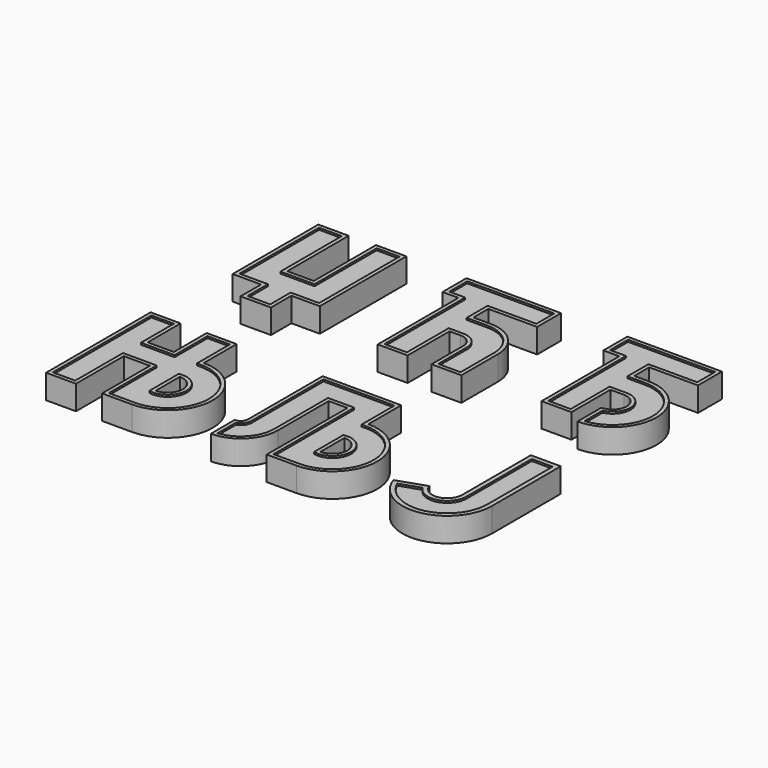
from build123d import *

# Parameters (mm, degrees)
F0_W      = 6.0888630679
F0_H      = 1.2813997149
F0_H_2    = 8.372186441
F1_DEPTH  = 6
F2_DEPTH  = 6.5
F3_DEPTH  = 5
F4_W      = 6
F4_H      = 1
F5_DEPTH  = 6
F6_DEPTH  = 6.5
F7_DEPTH  = 5
F8_W      = 6
F8_H      = 1
F9_DEPTH  = 6
F10_DEPTH = 6.5
F11_DEPTH = 5
F13_DEPTH = 6
F14_DEPTH = 6.5
F15_DEPTH = 5
F17_DEPTH = 6
F18_DEPTH = 6.5
F19_DEPTH = 5
F20_W     = 5.6000024785
F20_H     = 20.6000012393
F20_H_2   = 1.2
F21_DEPTH = 6
F22_DEPTH = 6.5
F23_DEPTH = 5


with BuildPart() as f1:
    # F0 (on Top) → F1 (new body)
    with BuildSketch(Plane.XY):
        Polygon((-54.2746931314, 46.2255762225), (-54.2746931314, 17.5571795553), (-46.6636142966, 17.5571795553), (-46.6636142966, 10.7072083267), (-38.5451302061, 10.7072083267), (-38.5451302061, 17.5571795553), (-30.9340513713, 17.5571795553), (-30.9340513713, 46.4792815309), (-39.0525354618, 46.4792815309), (-39.0525354618, 25.6756636458), (-46.156209041, 25.6756636458), (-46.156209041, 46.2255762225), align=None)
        Polygon((-31.9488618826, 45.4644710196), (-31.9488618826, 18.5719900666), (-39.5599407174, 18.5719900666), (-39.5599407174, 11.722018838), (-45.6488037853, 11.722018838), (-45.6488037853, 18.5719900666), (-53.2598826201, 18.5719900666), (-53.2598826201, 35.5571795553), (-53.2598826201, 36.8385792702), (-53.2598826201, 45.2107657112), (-47.1710195523, 45.2107657112), (-47.1710195523, 36.8385792702), (-47.1710195523, 35.5571795553), (-47.1710195523, 24.6608531345), (-45.6488037853, 24.6608531345), (-38.0377249505, 24.6608531345), (-38.0377249505, 45.4644710196), align=None, mode=Mode.SUBTRACT)
        Polygon((-39.5599407174, 18.5719900666), (-31.9488618826, 18.5719900666), (-31.9488618826, 45.4644710196), (-38.0377249505, 45.4644710196), (-38.0377249505, 24.6608531345), (-45.6488037853, 24.6608531345), (-47.1710195523, 24.6608531345), (-47.1710195523, 35.5571795553), (-53.2598826201, 35.5571795553), (-53.2598826201, 18.5719900666), (-45.6488037853, 18.5719900666), (-45.6488037853, 11.722018838), (-39.5599407174, 11.722018838), align=None)
        with Locations((-50.2154510862, 36.1978794127)):
            Rectangle(F0_W, F0_H)
        with Locations((-50.2154510862, 41.0246724907)):
            Rectangle(F0_W, F0_H_2)
    extrude(amount=F1_DEPTH)

    # F0 (on Top) → F2 (join)
    with BuildSketch(Plane.XY):
        Polygon((-54.2746931314, 46.2255762225), (-54.2746931314, 17.5571795553), (-46.6636142966, 17.5571795553), (-46.6636142966, 10.7072083267), (-38.5451302061, 10.7072083267), (-38.5451302061, 17.5571795553), (-30.9340513713, 17.5571795553), (-30.9340513713, 46.4792815309), (-39.0525354618, 46.4792815309), (-39.0525354618, 25.6756636458), (-46.156209041, 25.6756636458), (-46.156209041, 46.2255762225), align=None)
        Polygon((-31.9488618826, 45.4644710196), (-31.9488618826, 18.5719900666), (-39.5599407174, 18.5719900666), (-39.5599407174, 11.722018838), (-45.6488037853, 11.722018838), (-45.6488037853, 18.5719900666), (-53.2598826201, 18.5719900666), (-53.2598826201, 35.5571795553), (-53.2598826201, 36.8385792702), (-53.2598826201, 45.2107657112), (-47.1710195523, 45.2107657112), (-47.1710195523, 36.8385792702), (-47.1710195523, 35.5571795553), (-47.1710195523, 24.6608531345), (-45.6488037853, 24.6608531345), (-38.0377249505, 24.6608531345), (-38.0377249505, 45.4644710196), align=None, mode=Mode.SUBTRACT)
    extrude(amount=F2_DEPTH)

    # F0 (on Top) → F3 (cut)
    with BuildSketch(Plane.XY):
        Polygon((-39.5599407174, 18.5719900666), (-31.9488618826, 18.5719900666), (-31.9488618826, 45.4644710196), (-38.0377249505, 45.4644710196), (-38.0377249505, 24.6608531345), (-45.6488037853, 24.6608531345), (-47.1710195523, 24.6608531345), (-47.1710195523, 35.5571795553), (-53.2598826201, 35.5571795553), (-53.2598826201, 18.5719900666), (-45.6488037853, 18.5719900666), (-45.6488037853, 11.722018838), (-39.5599407174, 11.722018838), align=None)
        with Locations((-50.2154510862, 41.0246724907)):
            Rectangle(F0_W, F0_H_2)
    extrude(amount=F3_DEPTH, mode=Mode.SUBTRACT)


with BuildPart() as f5:
    # F4 (on Top) → F5 (new body)
    with BuildSketch(Plane.XY):
        with BuildLine():
            Line((-14.9280290909, 38.6110406816), (-10.6780290909, 38.6110406816))
            Line((-10.6780290909, 38.6110406816), (-10.6780290909, 11.6110406816))
            Line((-10.6780290909, 11.6110406816), (-2.6780290909, 11.6110406816))
            Line((-2.6780290909, 11.6110406816), (-2.6780290909, 25.6110406816))
            Line((-2.6780290909, 25.6110406816), (0.3294588932, 25.6110406816))
            ThreePointArc((0.3294588932, 25.6110406816), (2.8579005681, 24.4816825281), (3.7041804932, 21.8449653589))
            Line((3.7041804932, 21.8449653589), (3.7041804932, 11.6110406816))
            Line((3.7041804932, 11.6110406816), (11.7041804932, 11.6110406816))
            Line((11.7041804932, 11.6110406816), (11.7041804932, 23.830090176))
            ThreePointArc((11.7041804932, 23.830090176), (8.8394064165, 30.746266605), (1.9232299876, 33.6110406816))
            Line((1.9232299876, 33.6110406816), (-2.6780290909, 33.6110406816))
            Line((-2.6780290909, 33.6110406816), (-2.6780290909, 38.6110406816))
            Line((-2.6780290909, 38.6110406816), (10.3974262689, 38.6110406816))
            Line((10.3974262689, 38.6110406816), (10.3974262689, 46.6110406816))
            Line((10.3974262689, 46.6110406816), (-14.9280290909, 46.6110406816))
            Line((-14.9280290909, 46.6110406816), (-14.9280290909, 38.6110406816))
        make_face()
        with BuildLine():
            Line((-3.6780290909, 39.6110406816), (-3.6780290909, 33.6110406816))
            Line((-3.6780290909, 33.6110406816), (-3.6780290909, 32.6110406816))
            Line((-3.6780290909, 32.6110406816), (1.9232299876, 32.6110406816))
            ThreePointArc((1.9232299876, 32.6110406816), (8.1322996354, 30.0391598238), (10.7041804932, 23.830090176))
            Line((10.7041804932, 23.830090176), (10.7041804932, 12.6110406816))
            Line((10.7041804932, 12.6110406816), (4.7041804932, 12.6110406816))
            Line((4.7041804932, 12.6110406816), (4.7041804932, 21.7937015852))
            ThreePointArc((4.7041804932, 21.7937015852), (3.5831085766, 25.17068931), (0.3294588932, 26.6110406816))
            Line((0.3294588932, 26.6110406816), (-3.6780290909, 26.6110406816))
            Line((-3.6780290909, 26.6110406816), (-3.6780290909, 12.6110406816))
            Line((-3.6780290909, 12.6110406816), (-9.6780290909, 12.6110406816))
            Line((-9.6780290909, 12.6110406816), (-9.6780290909, 32.6110406816))
            Line((-9.6780290909, 32.6110406816), (-9.6780290909, 33.6110406816))
            Line((-9.6780290909, 33.6110406816), (-9.6780290909, 39.6110406816))
            Line((-9.6780290909, 39.6110406816), (-13.9280290909, 39.6110406816))
            Line((-13.9280290909, 39.6110406816), (-13.9280290909, 45.6110406816))
            Line((-13.9280290909, 45.6110406816), (9.3974262689, 45.6110406816))
            Line((9.3974262689, 45.6110406816), (9.3974262689, 39.6110406816))
            Line((9.3974262689, 39.6110406816), (-3.6780290909, 39.6110406816))
        make_face(mode=Mode.SUBTRACT)
        Polygon((-9.6780290909, 33.6110406816), (-3.6780290909, 33.6110406816), (-3.6780290909, 39.6110406816), (9.3974262689, 39.6110406816), (9.3974262689, 45.6110406816), (-13.9280290909, 45.6110406816), (-13.9280290909, 39.6110406816), (-9.6780290909, 39.6110406816), align=None)
        with Locations((-6.6780290909, 33.1110406816)):
            Rectangle(F4_W, F4_H)
        with BuildLine():
            Line((1.9232299876, 32.6110406816), (-3.6780290909, 32.6110406816))
            Line((-3.6780290909, 32.6110406816), (-9.6780290909, 32.6110406816))
            Line((-9.6780290909, 32.6110406816), (-9.6780290909, 12.6110406816))
            Line((-9.6780290909, 12.6110406816), (-3.6780290909, 12.6110406816))
            Line((-3.6780290909, 12.6110406816), (-3.6780290909, 26.6110406816))
            Line((-3.6780290909, 26.6110406816), (0.3294588932, 26.6110406816))
            ThreePointArc((0.3294588932, 26.6110406816), (3.5831085766, 25.17068931), (4.7041804932, 21.7937015852))
            Line((4.7041804932, 21.7937015852), (4.7041804932, 12.6110406816))
            Line((4.7041804932, 12.6110406816), (10.7041804932, 12.6110406816))
            Line((10.7041804932, 12.6110406816), (10.7041804932, 23.830090176))
            ThreePointArc((10.7041804932, 23.830090176), (8.1322996354, 30.0391598238), (1.9232299876, 32.6110406816))
        make_face()
    extrude(amount=F5_DEPTH)

    # F4 (on Top) → F6 (join)
    with BuildSketch(Plane.XY):
        with BuildLine():
            Line((-14.9280290909, 38.6110406816), (-10.6780290909, 38.6110406816))
            Line((-10.6780290909, 38.6110406816), (-10.6780290909, 11.6110406816))
            Line((-10.6780290909, 11.6110406816), (-2.6780290909, 11.6110406816))
            Line((-2.6780290909, 11.6110406816), (-2.6780290909, 25.6110406816))
            Line((-2.6780290909, 25.6110406816), (0.3294588932, 25.6110406816))
            ThreePointArc((0.3294588932, 25.6110406816), (2.8579005681, 24.4816825281), (3.7041804932, 21.8449653589))
            Line((3.7041804932, 21.8449653589), (3.7041804932, 11.6110406816))
            Line((3.7041804932, 11.6110406816), (11.7041804932, 11.6110406816))
            Line((11.7041804932, 11.6110406816), (11.7041804932, 23.830090176))
            ThreePointArc((11.7041804932, 23.830090176), (8.8394064165, 30.746266605), (1.9232299876, 33.6110406816))
            Line((1.9232299876, 33.6110406816), (-2.6780290909, 33.6110406816))
            Line((-2.6780290909, 33.6110406816), (-2.6780290909, 38.6110406816))
            Line((-2.6780290909, 38.6110406816), (10.3974262689, 38.6110406816))
            Line((10.3974262689, 38.6110406816), (10.3974262689, 46.6110406816))
            Line((10.3974262689, 46.6110406816), (-14.9280290909, 46.6110406816))
            Line((-14.9280290909, 46.6110406816), (-14.9280290909, 38.6110406816))
        make_face()
        with BuildLine():
            Line((-3.6780290909, 39.6110406816), (-3.6780290909, 33.6110406816))
            Line((-3.6780290909, 33.6110406816), (-3.6780290909, 32.6110406816))
            Line((-3.6780290909, 32.6110406816), (1.9232299876, 32.6110406816))
            ThreePointArc((1.9232299876, 32.6110406816), (8.1322996354, 30.0391598238), (10.7041804932, 23.830090176))
            Line((10.7041804932, 23.830090176), (10.7041804932, 12.6110406816))
            Line((10.7041804932, 12.6110406816), (4.7041804932, 12.6110406816))
            Line((4.7041804932, 12.6110406816), (4.7041804932, 21.7937015852))
            ThreePointArc((4.7041804932, 21.7937015852), (3.5831085766, 25.17068931), (0.3294588932, 26.6110406816))
            Line((0.3294588932, 26.6110406816), (-3.6780290909, 26.6110406816))
            Line((-3.6780290909, 26.6110406816), (-3.6780290909, 12.6110406816))
            Line((-3.6780290909, 12.6110406816), (-9.6780290909, 12.6110406816))
            Line((-9.6780290909, 12.6110406816), (-9.6780290909, 32.6110406816))
            Line((-9.6780290909, 32.6110406816), (-9.6780290909, 33.6110406816))
            Line((-9.6780290909, 33.6110406816), (-9.6780290909, 39.6110406816))
            Line((-9.6780290909, 39.6110406816), (-13.9280290909, 39.6110406816))
            Line((-13.9280290909, 39.6110406816), (-13.9280290909, 45.6110406816))
            Line((-13.9280290909, 45.6110406816), (9.3974262689, 45.6110406816))
            Line((9.3974262689, 45.6110406816), (9.3974262689, 39.6110406816))
            Line((9.3974262689, 39.6110406816), (-3.6780290909, 39.6110406816))
        make_face(mode=Mode.SUBTRACT)
    extrude(amount=F6_DEPTH)

    # F4 (on Top) → F7 (cut)
    with BuildSketch(Plane.XY):
        Polygon((-9.6780290909, 33.6110406816), (-3.6780290909, 33.6110406816), (-3.6780290909, 39.6110406816), (9.3974262689, 39.6110406816), (9.3974262689, 45.6110406816), (-13.9280290909, 45.6110406816), (-13.9280290909, 39.6110406816), (-9.6780290909, 39.6110406816), align=None)
        with BuildLine():
            Line((1.9232299876, 32.6110406816), (-3.6780290909, 32.6110406816))
            Line((-3.6780290909, 32.6110406816), (-9.6780290909, 32.6110406816))
            Line((-9.6780290909, 32.6110406816), (-9.6780290909, 12.6110406816))
            Line((-9.6780290909, 12.6110406816), (-3.6780290909, 12.6110406816))
            Line((-3.6780290909, 12.6110406816), (-3.6780290909, 26.6110406816))
            Line((-3.6780290909, 26.6110406816), (0.3294588932, 26.6110406816))
            ThreePointArc((0.3294588932, 26.6110406816), (3.5831085766, 25.17068931), (4.7041804932, 21.7937015852))
            Line((4.7041804932, 21.7937015852), (4.7041804932, 12.6110406816))
            Line((4.7041804932, 12.6110406816), (10.7041804932, 12.6110406816))
            Line((10.7041804932, 12.6110406816), (10.7041804932, 23.830090176))
            ThreePointArc((10.7041804932, 23.830090176), (8.1322996354, 30.0391598238), (1.9232299876, 32.6110406816))
        make_face()
    extrude(amount=F7_DEPTH, mode=Mode.SUBTRACT)


with BuildPart() as f9:
    # F8 (on Top) → F9 (new body)
    with BuildSketch(Plane.XY):
        with BuildLine():
            Line((27.8599992033, 38.9609182477), (32.1099992033, 38.9609182477))
            Line((32.1099992033, 38.9609182477), (32.1099992033, 12.9609182477))
            Line((32.1099992033, 12.9609182477), (40.1099992033, 12.9609182477))
            Line((40.1099992033, 12.9609182477), (40.1099992033, 25.9609182477))
            Line((40.1099992033, 25.9609182477), (43.7352776033, 25.9609182477))
            ThreePointArc((43.7352776033, 25.9609182477), (47.4852776033, 22.2109182477), (43.7352776033, 18.4609182477))
            Line((43.7352776033, 18.4609182477), (43.7352776033, 10.4609182477))
            ThreePointArc((43.7352776033, 10.4609182477), (55.4852776033, 22.2109182477), (43.7352776033, 33.9609182477))
            Line((43.7352776033, 33.9609182477), (40.1099992033, 33.9609182477))
            Line((40.1099992033, 33.9609182477), (40.1099992033, 38.9609182477))
            Line((40.1099992033, 38.9609182477), (53.1854545631, 38.9609182477))
            Line((53.1854545631, 38.9609182477), (53.1854545631, 46.9609182477))
            Line((53.1854545631, 46.9609182477), (27.8599992033, 46.9609182477))
            Line((27.8599992033, 46.9609182477), (27.8599992033, 38.9609182477))
        make_face()
        with BuildLine():
            Line((39.1099992033, 39.9609182477), (39.1099992033, 33.9609182477))
            Line((39.1099992033, 33.9609182477), (39.1099992033, 32.9609182477))
            Line((39.1099992033, 32.9609182477), (43.7352776033, 32.9609182477))
            ThreePointArc((43.7352776033, 32.9609182477), (54.4736181089, 22.7114611386), (44.7352776033, 11.5075309334))
            Line((44.7352776033, 11.5075309334), (44.7352776033, 17.5673743424))
            ThreePointArc((44.7352776033, 17.5673743424), (48.4585886004, 22.7137434907), (43.7352776033, 26.9609182477))
            Line((43.7352776033, 26.9609182477), (39.1099992033, 26.9609182477))
            Line((39.1099992033, 26.9609182477), (39.1099992033, 13.9609182477))
            Line((39.1099992033, 13.9609182477), (33.1099992033, 13.9609182477))
            Line((33.1099992033, 13.9609182477), (33.1099992033, 32.9609182477))
            Line((33.1099992033, 32.9609182477), (33.1099992033, 33.9609182477))
            Line((33.1099992033, 33.9609182477), (33.1099992033, 39.9609182477))
            Line((33.1099992033, 39.9609182477), (28.8599992033, 39.9609182477))
            Line((28.8599992033, 39.9609182477), (28.8599992033, 45.9609182477))
            Line((28.8599992033, 45.9609182477), (52.1854545631, 45.9609182477))
            Line((52.1854545631, 45.9609182477), (52.1854545631, 39.9609182477))
            Line((52.1854545631, 39.9609182477), (39.1099992033, 39.9609182477))
        make_face(mode=Mode.SUBTRACT)
        with BuildLine():
            Line((27.8599992033, 38.9609182477), (32.1099992033, 38.9609182477))
            Line((32.1099992033, 38.9609182477), (32.1099992033, 12.9609182477))
            Line((32.1099992033, 12.9609182477), (40.1099992033, 12.9609182477))
            Line((40.1099992033, 12.9609182477), (40.1099992033, 25.9609182477))
            Line((40.1099992033, 25.9609182477), (43.7352776033, 25.9609182477))
            ThreePointArc((43.7352776033, 25.9609182477), (47.4852776033, 22.2109182477), (43.7352776033, 18.4609182477))
            Line((43.7352776033, 18.4609182477), (43.7352776033, 10.4609182477))
            ThreePointArc((43.7352776033, 10.4609182477), (55.4852776033, 22.2109182477), (43.7352776033, 33.9609182477))
            Line((43.7352776033, 33.9609182477), (40.1099992033, 33.9609182477))
            Line((40.1099992033, 33.9609182477), (40.1099992033, 38.9609182477))
            Line((40.1099992033, 38.9609182477), (53.1854545631, 38.9609182477))
            Line((53.1854545631, 38.9609182477), (53.1854545631, 46.9609182477))
            Line((53.1854545631, 46.9609182477), (27.8599992033, 46.9609182477))
            Line((27.8599992033, 46.9609182477), (27.8599992033, 38.9609182477))
        make_face()
        with BuildLine():
            Line((39.1099992033, 39.9609182477), (39.1099992033, 33.9609182477))
            Line((39.1099992033, 33.9609182477), (39.1099992033, 32.9609182477))
            Line((39.1099992033, 32.9609182477), (43.7352776033, 32.9609182477))
            ThreePointArc((43.7352776033, 32.9609182477), (54.4736181089, 22.7114611386), (44.7352776033, 11.5075309334))
            Line((44.7352776033, 11.5075309334), (44.7352776033, 17.5673743424))
            ThreePointArc((44.7352776033, 17.5673743424), (48.4585886004, 22.7137434907), (43.7352776033, 26.9609182477))
            Line((43.7352776033, 26.9609182477), (39.1099992033, 26.9609182477))
            Line((39.1099992033, 26.9609182477), (39.1099992033, 13.9609182477))
            Line((39.1099992033, 13.9609182477), (33.1099992033, 13.9609182477))
            Line((33.1099992033, 13.9609182477), (33.1099992033, 32.9609182477))
            Line((33.1099992033, 32.9609182477), (33.1099992033, 33.9609182477))
            Line((33.1099992033, 33.9609182477), (33.1099992033, 39.9609182477))
            Line((33.1099992033, 39.9609182477), (28.8599992033, 39.9609182477))
            Line((28.8599992033, 39.9609182477), (28.8599992033, 45.9609182477))
            Line((28.8599992033, 45.9609182477), (52.1854545631, 45.9609182477))
            Line((52.1854545631, 45.9609182477), (52.1854545631, 39.9609182477))
            Line((52.1854545631, 39.9609182477), (39.1099992033, 39.9609182477))
        make_face(mode=Mode.SUBTRACT)
        with BuildLine():
            Line((43.7352776033, 32.9609182477), (39.1099992033, 32.9609182477))
            Line((39.1099992033, 32.9609182477), (33.1099992033, 32.9609182477))
            Line((33.1099992033, 32.9609182477), (33.1099992033, 13.9609182477))
            Line((33.1099992033, 13.9609182477), (39.1099992033, 13.9609182477))
            Line((39.1099992033, 13.9609182477), (39.1099992033, 26.9609182477))
            Line((39.1099992033, 26.9609182477), (43.7352776033, 26.9609182477))
            ThreePointArc((43.7352776033, 26.9609182477), (48.4585886004, 22.7137434907), (44.7352776033, 17.5673743424))
            Line((44.7352776033, 17.5673743424), (44.7352776033, 11.5075309334))
            ThreePointArc((44.7352776033, 11.5075309334), (54.4736181089, 22.7114611386), (43.7352776033, 32.9609182477))
        make_face()
        Polygon((33.1099992033, 33.9609182477), (39.1099992033, 33.9609182477), (39.1099992033, 39.9609182477), (52.1854545631, 39.9609182477), (52.1854545631, 45.9609182477), (28.8599992033, 45.9609182477), (28.8599992033, 39.9609182477), (33.1099992033, 39.9609182477), align=None)
        with Locations((36.1099992033, 33.4609182477)):
            Rectangle(F8_W, F8_H)
    extrude(amount=F9_DEPTH)

    # F8 (on Top) → F10 (join)
    with BuildSketch(Plane.XY):
        with BuildLine():
            Line((27.8599992033, 38.9609182477), (32.1099992033, 38.9609182477))
            Line((32.1099992033, 38.9609182477), (32.1099992033, 12.9609182477))
            Line((32.1099992033, 12.9609182477), (40.1099992033, 12.9609182477))
            Line((40.1099992033, 12.9609182477), (40.1099992033, 25.9609182477))
            Line((40.1099992033, 25.9609182477), (43.7352776033, 25.9609182477))
            ThreePointArc((43.7352776033, 25.9609182477), (47.4852776033, 22.2109182477), (43.7352776033, 18.4609182477))
            Line((43.7352776033, 18.4609182477), (43.7352776033, 10.4609182477))
            ThreePointArc((43.7352776033, 10.4609182477), (55.4852776033, 22.2109182477), (43.7352776033, 33.9609182477))
            Line((43.7352776033, 33.9609182477), (40.1099992033, 33.9609182477))
            Line((40.1099992033, 33.9609182477), (40.1099992033, 38.9609182477))
            Line((40.1099992033, 38.9609182477), (53.1854545631, 38.9609182477))
            Line((53.1854545631, 38.9609182477), (53.1854545631, 46.9609182477))
            Line((53.1854545631, 46.9609182477), (27.8599992033, 46.9609182477))
            Line((27.8599992033, 46.9609182477), (27.8599992033, 38.9609182477))
        make_face()
        with BuildLine():
            Line((39.1099992033, 39.9609182477), (39.1099992033, 33.9609182477))
            Line((39.1099992033, 33.9609182477), (39.1099992033, 32.9609182477))
            Line((39.1099992033, 32.9609182477), (43.7352776033, 32.9609182477))
            ThreePointArc((43.7352776033, 32.9609182477), (54.4736181089, 22.7114611386), (44.7352776033, 11.5075309334))
            Line((44.7352776033, 11.5075309334), (44.7352776033, 17.5673743424))
            ThreePointArc((44.7352776033, 17.5673743424), (48.4585886004, 22.7137434907), (43.7352776033, 26.9609182477))
            Line((43.7352776033, 26.9609182477), (39.1099992033, 26.9609182477))
            Line((39.1099992033, 26.9609182477), (39.1099992033, 13.9609182477))
            Line((39.1099992033, 13.9609182477), (33.1099992033, 13.9609182477))
            Line((33.1099992033, 13.9609182477), (33.1099992033, 32.9609182477))
            Line((33.1099992033, 32.9609182477), (33.1099992033, 33.9609182477))
            Line((33.1099992033, 33.9609182477), (33.1099992033, 39.9609182477))
            Line((33.1099992033, 39.9609182477), (28.8599992033, 39.9609182477))
            Line((28.8599992033, 39.9609182477), (28.8599992033, 45.9609182477))
            Line((28.8599992033, 45.9609182477), (52.1854545631, 45.9609182477))
            Line((52.1854545631, 45.9609182477), (52.1854545631, 39.9609182477))
            Line((52.1854545631, 39.9609182477), (39.1099992033, 39.9609182477))
        make_face(mode=Mode.SUBTRACT)
    extrude(amount=F10_DEPTH)

    # F8 (on Top) → F11 (cut)
    with BuildSketch(Plane.XY):
        Polygon((33.1099992033, 33.9609182477), (39.1099992033, 33.9609182477), (39.1099992033, 39.9609182477), (52.1854545631, 39.9609182477), (52.1854545631, 45.9609182477), (28.8599992033, 45.9609182477), (28.8599992033, 39.9609182477), (33.1099992033, 39.9609182477), align=None)
        with BuildLine():
            Line((43.7352776033, 32.9609182477), (39.1099992033, 32.9609182477))
            Line((39.1099992033, 32.9609182477), (33.1099992033, 32.9609182477))
            Line((33.1099992033, 32.9609182477), (33.1099992033, 13.9609182477))
            Line((33.1099992033, 13.9609182477), (39.1099992033, 13.9609182477))
            Line((39.1099992033, 13.9609182477), (39.1099992033, 26.9609182477))
            Line((39.1099992033, 26.9609182477), (43.7352776033, 26.9609182477))
            ThreePointArc((43.7352776033, 26.9609182477), (48.4585886004, 22.7137434907), (44.7352776033, 17.5673743424))
            Line((44.7352776033, 17.5673743424), (44.7352776033, 11.5075309334))
            ThreePointArc((44.7352776033, 11.5075309334), (54.4736181089, 22.7114611386), (43.7352776033, 32.9609182477))
        make_face()
    extrude(amount=F11_DEPTH, mode=Mode.SUBTRACT)


with BuildPart() as f13:
    # F12 (on Top) → F13 (new body)
    with BuildSketch(Plane.XY):
        with BuildLine():
            Line((-48.8178854883, -6.7042076588), (-56.8178854883, -6.7042076588))
            Line((-56.8178854883, -6.7042076588), (-56.8178854883, -41.7042076588))
            Line((-56.8178854883, -41.7042076588), (-48.8178854883, -41.7042076588))
            Line((-48.8178854883, -41.7042076588), (-48.8178854883, -25.7042076588))
            Line((-48.8178854883, -25.7042076588), (-41.8178854883, -25.7042076588))
            Line((-41.8178854883, -25.7042076588), (-41.8178854883, -41.7042076588))
            Line((-41.8178854883, -41.7042076588), (-33.8178854883, -41.7042076588))
            ThreePointArc((-33.8178854883, -41.7042076588), (-21.8178854883, -29.7042076588), (-33.8178854883, -17.7042076588))
            Line((-33.8178854883, -17.7042076588), (-33.8178854883, -6.7042076588))
            Line((-33.8178854883, -6.7042076588), (-41.8178854883, -6.7042076588))
            Line((-41.8178854883, -6.7042076588), (-41.8178854883, -17.7042076588))
            Line((-41.8178854883, -17.7042076588), (-48.8178854883, -17.7042076588))
            Line((-48.8178854883, -17.7042076588), (-48.8178854883, -6.7042076588))
        make_face()
        with BuildLine():
            ThreePointArc((-34.8178854883, -18.7497565087), (-34.3194048671, -18.7156464102), (-33.8198895143, -18.7042078413))
            ThreePointArc((-33.8198895143, -18.7042078413), (-22.8178855339, -29.7032056457), (-33.8178854883, -40.7042076588))
            Line((-33.8178854883, -40.7042076588), (-40.8178854883, -40.7042076588))
            Line((-40.8178854883, -40.7042076588), (-40.8178854883, -24.7042076588))
            Line((-40.8178854883, -24.7042076588), (-49.8178854883, -24.7042076588))
            Line((-49.8178854883, -24.7042076588), (-49.8178854883, -40.7042076588))
            Line((-49.8178854883, -40.7042076588), (-55.8178854883, -40.7042076588))
            Line((-55.8178854883, -40.7042076588), (-55.8178854883, -7.7042076588))
            Line((-55.8178854883, -7.7042076588), (-49.8178854883, -7.7042076588))
            Line((-49.8178854883, -7.7042076588), (-49.8178854883, -18.7042076588))
            Line((-49.8178854883, -18.7042076588), (-40.8178854883, -18.7042076588))
            Line((-40.8178854883, -18.7042076588), (-40.8178854883, -7.7042076588))
            Line((-40.8178854883, -7.7042076588), (-34.8178854883, -7.7042076588))
            Line((-34.8178854883, -7.7042076588), (-34.8178854883, -18.7497565087))
        make_face(mode=Mode.SUBTRACT)
        with BuildLine():
            ThreePointArc((-33.8178854883, -40.7042076588), (-22.8178855339, -29.7032056457), (-33.8198895143, -18.7042078413))
            Line((-33.8198895143, -18.7042078413), (-33.8318816422, -24.6882269811))
            ThreePointArc((-33.8318816422, -24.6882269811), (-28.8272388979, -30.2078986963), (-34.8338856926, -34.6162338839))
            Line((-34.8338856926, -34.6162338839), (-34.8338856926, -24.7921814337))
            Line((-34.8338856926, -24.7921814337), (-34.8178854883, -18.7497565087))
            Line((-34.8178854883, -18.7497565087), (-34.8178854883, -7.7042076588))
            Line((-34.8178854883, -7.7042076588), (-40.8178854883, -7.7042076588))
            Line((-40.8178854883, -7.7042076588), (-40.8178854883, -18.7042076588))
            Line((-40.8178854883, -18.7042076588), (-49.8178854883, -18.7042076588))
            Line((-49.8178854883, -18.7042076588), (-49.8178854883, -7.7042076588))
            Line((-49.8178854883, -7.7042076588), (-55.8178854883, -7.7042076588))
            Line((-55.8178854883, -7.7042076588), (-55.8178854883, -40.7042076588))
            Line((-55.8178854883, -40.7042076588), (-49.8178854883, -40.7042076588))
            Line((-49.8178854883, -40.7042076588), (-49.8178854883, -24.7042076588))
            Line((-49.8178854883, -24.7042076588), (-40.8178854883, -24.7042076588))
            Line((-40.8178854883, -24.7042076588), (-40.8178854883, -40.7042076588))
            Line((-40.8178854883, -40.7042076588), (-33.8178854883, -40.7042076588))
        make_face()
        with BuildLine():
            ThreePointArc((-34.8338856926, -34.6162338839), (-28.8272388979, -30.2078986963), (-33.8318816422, -24.6882269811))
            ThreePointArc((-33.8318816422, -24.6882269811), (-34.3354999747, -24.7149859464), (-34.8338856926, -24.7921814337))
            Line((-34.8338856926, -24.7921814337), (-34.8338856926, -34.6162338839))
        make_face()
        with BuildLine():
            Line((-33.8338856926, -33.7201759898), (-33.8338856926, -25.6882393277))
            ThreePointArc((-33.8338856926, -25.6882393277), (-29.8018852838, -29.7042076588), (-33.8338856926, -33.7201759898))
        make_face(mode=Mode.SUBTRACT)
        with BuildLine():
            Line((-33.8318816422, -24.6882269811), (-33.8198895143, -18.7042078413))
            ThreePointArc((-33.8198895143, -18.7042078413), (-34.3194048671, -18.7156464102), (-34.8178854883, -18.7497565087))
            Line((-34.8178854883, -18.7497565087), (-34.8338856926, -24.7921814337))
            ThreePointArc((-34.8338856926, -24.7921814337), (-34.3354999747, -24.7149859464), (-33.8318816422, -24.6882269811))
        make_face()
    extrude(amount=F13_DEPTH)

    # F12 (on Top) → F14 (join)
    with BuildSketch(Plane.XY):
        with BuildLine():
            Line((-48.8178854883, -6.7042076588), (-56.8178854883, -6.7042076588))
            Line((-56.8178854883, -6.7042076588), (-56.8178854883, -41.7042076588))
            Line((-56.8178854883, -41.7042076588), (-48.8178854883, -41.7042076588))
            Line((-48.8178854883, -41.7042076588), (-48.8178854883, -25.7042076588))
            Line((-48.8178854883, -25.7042076588), (-41.8178854883, -25.7042076588))
            Line((-41.8178854883, -25.7042076588), (-41.8178854883, -41.7042076588))
            Line((-41.8178854883, -41.7042076588), (-33.8178854883, -41.7042076588))
            ThreePointArc((-33.8178854883, -41.7042076588), (-21.8178854883, -29.7042076588), (-33.8178854883, -17.7042076588))
            Line((-33.8178854883, -17.7042076588), (-33.8178854883, -6.7042076588))
            Line((-33.8178854883, -6.7042076588), (-41.8178854883, -6.7042076588))
            Line((-41.8178854883, -6.7042076588), (-41.8178854883, -17.7042076588))
            Line((-41.8178854883, -17.7042076588), (-48.8178854883, -17.7042076588))
            Line((-48.8178854883, -17.7042076588), (-48.8178854883, -6.7042076588))
        make_face()
        with BuildLine():
            ThreePointArc((-34.8178854883, -18.7497565087), (-34.3194048671, -18.7156464102), (-33.8198895143, -18.7042078413))
            ThreePointArc((-33.8198895143, -18.7042078413), (-22.8178855339, -29.7032056457), (-33.8178854883, -40.7042076588))
            Line((-33.8178854883, -40.7042076588), (-40.8178854883, -40.7042076588))
            Line((-40.8178854883, -40.7042076588), (-40.8178854883, -24.7042076588))
            Line((-40.8178854883, -24.7042076588), (-49.8178854883, -24.7042076588))
            Line((-49.8178854883, -24.7042076588), (-49.8178854883, -40.7042076588))
            Line((-49.8178854883, -40.7042076588), (-55.8178854883, -40.7042076588))
            Line((-55.8178854883, -40.7042076588), (-55.8178854883, -7.7042076588))
            Line((-55.8178854883, -7.7042076588), (-49.8178854883, -7.7042076588))
            Line((-49.8178854883, -7.7042076588), (-49.8178854883, -18.7042076588))
            Line((-49.8178854883, -18.7042076588), (-40.8178854883, -18.7042076588))
            Line((-40.8178854883, -18.7042076588), (-40.8178854883, -7.7042076588))
            Line((-40.8178854883, -7.7042076588), (-34.8178854883, -7.7042076588))
            Line((-34.8178854883, -7.7042076588), (-34.8178854883, -18.7497565087))
        make_face(mode=Mode.SUBTRACT)
        with BuildLine():
            ThreePointArc((-34.8338856926, -34.6162338839), (-28.8272388979, -30.2078986963), (-33.8318816422, -24.6882269811))
            ThreePointArc((-33.8318816422, -24.6882269811), (-34.3354999747, -24.7149859464), (-34.8338856926, -24.7921814337))
            Line((-34.8338856926, -24.7921814337), (-34.8338856926, -34.6162338839))
        make_face()
        with BuildLine():
            Line((-33.8338856926, -33.7201759898), (-33.8338856926, -25.6882393277))
            ThreePointArc((-33.8338856926, -25.6882393277), (-29.8018852838, -29.7042076588), (-33.8338856926, -33.7201759898))
        make_face(mode=Mode.SUBTRACT)
    extrude(amount=F14_DEPTH)

    # F12 (on Top) → F15 (cut)
    with BuildSketch(Plane.XY):
        with BuildLine():
            ThreePointArc((-33.8178854883, -40.7042076588), (-22.8178855339, -29.7032056457), (-33.8198895143, -18.7042078413))
            Line((-33.8198895143, -18.7042078413), (-33.8318816422, -24.6882269811))
            ThreePointArc((-33.8318816422, -24.6882269811), (-28.8272388979, -30.2078986963), (-34.8338856926, -34.6162338839))
            Line((-34.8338856926, -34.6162338839), (-34.8338856926, -24.7921814337))
            Line((-34.8338856926, -24.7921814337), (-34.8178854883, -18.7497565087))
            Line((-34.8178854883, -18.7497565087), (-34.8178854883, -7.7042076588))
            Line((-34.8178854883, -7.7042076588), (-40.8178854883, -7.7042076588))
            Line((-40.8178854883, -7.7042076588), (-40.8178854883, -18.7042076588))
            Line((-40.8178854883, -18.7042076588), (-49.8178854883, -18.7042076588))
            Line((-49.8178854883, -18.7042076588), (-49.8178854883, -7.7042076588))
            Line((-49.8178854883, -7.7042076588), (-55.8178854883, -7.7042076588))
            Line((-55.8178854883, -7.7042076588), (-55.8178854883, -40.7042076588))
            Line((-55.8178854883, -40.7042076588), (-49.8178854883, -40.7042076588))
            Line((-49.8178854883, -40.7042076588), (-49.8178854883, -24.7042076588))
            Line((-49.8178854883, -24.7042076588), (-40.8178854883, -24.7042076588))
            Line((-40.8178854883, -24.7042076588), (-40.8178854883, -40.7042076588))
            Line((-40.8178854883, -40.7042076588), (-33.8178854883, -40.7042076588))
        make_face()
    extrude(amount=F15_DEPTH, mode=Mode.SUBTRACT)


with BuildPart() as f17:
    # F16 (on Top) → F17 (new body)
    with BuildSketch(Plane.XY):
        with BuildLine():
            Line((-2.6627758145, -31.776958853), (-2.6627758145, -14.8212043042))
            Line((-2.6627758145, -14.8212043042), (2.3523134243, -14.8212043042))
            Line((2.3523134243, -14.8212043042), (2.3523134243, -41.8212043042))
            Line((2.3523134243, -41.8212043042), (10.3523134243, -41.8212043042))
            ThreePointArc((10.3523134243, -41.8212043042), (22.3523134243, -29.8212043042), (10.3523134243, -17.8212043042))
            Line((10.3523134243, -17.8212043042), (10.3523134243, -6.8212043042))
            Line((10.3523134243, -6.8212043042), (-10.6627758145, -6.8212043042))
            Line((-10.6627758145, -6.8212043042), (-10.6627758145, -31.776958853))
            ThreePointArc((-10.6627758145, -31.776958853), (-11.2597998475, -33.2023214159), (-12.6944342504, -33.7767082732))
            Line((-12.6944342504, -33.7767082732), (-12.6627758145, -41.776958853))
            ThreePointArc((-12.6627758145, -41.776958853), (-5.5917080027, -38.8480266649), (-2.6627758145, -31.776958853))
        make_face()
        with BuildLine():
            Line((9.3523134243, -7.8212043042), (9.3523134243, -17.8192002786))
            Line((9.3523134243, -17.8192002786), (9.3523134243, -18.8667531541))
            ThreePointArc((9.3523134243, -18.8667531541), (21.3409203116, -29.3206858986), (10.3523134243, -40.8212043042))
            Line((10.3523134243, -40.8212043042), (3.3523134243, -40.8212043042))
            Line((3.3523134243, -40.8212043042), (3.3523134243, -18.8547290002))
            Line((3.3523134243, -18.8547290002), (3.3523134243, -17.8071761246))
            Line((3.3523134243, -17.8071761246), (3.3523134243, -13.8212043042))
            Line((3.3523134243, -13.8212043042), (-3.6476865757, -13.8212043042))
            Line((-3.6476865757, -13.8212043042), (-3.6627758145, -31.776958853))
            ThreePointArc((-3.6627758145, -31.776958853), (-5.9651988617, -37.7888190444), (-11.6944342504, -40.7247135778))
            Line((-11.6944342504, -40.7247135778), (-11.6944342504, -34.6163803813))
            ThreePointArc((-11.6944342504, -34.6163803813), (-10.2229987046, -33.5226643418), (-9.6627758145, -31.776958853))
            Line((-9.6627758145, -31.776958853), (-9.6476865757, -7.8212043042))
            Line((-9.6476865757, -7.8212043042), (9.3523134243, -7.8212043042))
        make_face(mode=Mode.SUBTRACT)
        with BuildLine():
            ThreePointArc((10.3523134243, -40.8212043042), (21.3409203116, -29.3206858986), (9.3523134243, -18.8667531541))
            Line((9.3523134243, -18.8667531541), (3.3523134243, -18.8547290002))
            Line((3.3523134243, -18.8547290002), (3.3523134243, -40.8212043042))
            Line((3.3523134243, -40.8212043042), (10.3523134243, -40.8212043042))
        make_face()
        with BuildLine():
            ThreePointArc((9.3363132199, -24.9091780791), (15.3683136287, -29.8212043042), (9.3363132199, -34.7332305294))
            Line((9.3363132199, -34.7332305294), (9.3363132199, -24.9091780791))
        make_face(mode=Mode.SUBTRACT)
        with BuildLine():
            Line((9.3363132199, -24.9091780791), (9.3363132199, -34.7332305294))
            ThreePointArc((9.3363132199, -34.7332305294), (15.3683136287, -29.8212043042), (9.3363132199, -24.9091780791))
        make_face()
        with BuildLine():
            ThreePointArc((10.3363132199, -25.8052359732), (14.3683136287, -29.8212043042), (10.3363132199, -33.8371726353))
            Line((10.3363132199, -33.8371726353), (10.3363132199, -25.8052359732))
        make_face(mode=Mode.SUBTRACT)
        Polygon((9.3523134243, -18.8667531541), (9.3523134243, -17.8192002786), (3.3523134243, -17.8071761246), (3.3523134243, -18.8547290002), align=None)
        with BuildLine():
            Line((3.3523134243, -17.8071761246), (9.3523134243, -17.8192002786))
            Line((9.3523134243, -17.8192002786), (9.3523134243, -7.8212043042))
            Line((9.3523134243, -7.8212043042), (-9.6476865757, -7.8212043042))
            Line((-9.6476865757, -7.8212043042), (-9.6627758145, -31.776958853))
            ThreePointArc((-9.6627758145, -31.776958853), (-10.2229987046, -33.5226643418), (-11.6944342504, -34.6163803813))
            Line((-11.6944342504, -34.6163803813), (-11.6944342504, -40.7247135778))
            ThreePointArc((-11.6944342504, -40.7247135778), (-5.9651988617, -37.7888190444), (-3.6627758145, -31.776958853))
            Line((-3.6627758145, -31.776958853), (-3.6476865757, -13.8212043042))
            Line((-3.6476865757, -13.8212043042), (3.3523134243, -13.8212043042))
            Line((3.3523134243, -13.8212043042), (3.3523134243, -17.8071761246))
        make_face()
    extrude(amount=F17_DEPTH)

    # F16 (on Top) → F18 (join)
    with BuildSketch(Plane.XY):
        with BuildLine():
            Line((-2.6627758145, -31.776958853), (-2.6627758145, -14.8212043042))
            Line((-2.6627758145, -14.8212043042), (2.3523134243, -14.8212043042))
            Line((2.3523134243, -14.8212043042), (2.3523134243, -41.8212043042))
            Line((2.3523134243, -41.8212043042), (10.3523134243, -41.8212043042))
            ThreePointArc((10.3523134243, -41.8212043042), (22.3523134243, -29.8212043042), (10.3523134243, -17.8212043042))
            Line((10.3523134243, -17.8212043042), (10.3523134243, -6.8212043042))
            Line((10.3523134243, -6.8212043042), (-10.6627758145, -6.8212043042))
            Line((-10.6627758145, -6.8212043042), (-10.6627758145, -31.776958853))
            ThreePointArc((-10.6627758145, -31.776958853), (-11.2597998475, -33.2023214159), (-12.6944342504, -33.7767082732))
            Line((-12.6944342504, -33.7767082732), (-12.6627758145, -41.776958853))
            ThreePointArc((-12.6627758145, -41.776958853), (-5.5917080027, -38.8480266649), (-2.6627758145, -31.776958853))
        make_face()
        with BuildLine():
            Line((9.3523134243, -7.8212043042), (9.3523134243, -17.8192002786))
            Line((9.3523134243, -17.8192002786), (9.3523134243, -18.8667531541))
            ThreePointArc((9.3523134243, -18.8667531541), (21.3409203116, -29.3206858986), (10.3523134243, -40.8212043042))
            Line((10.3523134243, -40.8212043042), (3.3523134243, -40.8212043042))
            Line((3.3523134243, -40.8212043042), (3.3523134243, -18.8547290002))
            Line((3.3523134243, -18.8547290002), (3.3523134243, -17.8071761246))
            Line((3.3523134243, -17.8071761246), (3.3523134243, -13.8212043042))
            Line((3.3523134243, -13.8212043042), (-3.6476865757, -13.8212043042))
            Line((-3.6476865757, -13.8212043042), (-3.6627758145, -31.776958853))
            ThreePointArc((-3.6627758145, -31.776958853), (-5.9651988617, -37.7888190444), (-11.6944342504, -40.7247135778))
            Line((-11.6944342504, -40.7247135778), (-11.6944342504, -34.6163803813))
            ThreePointArc((-11.6944342504, -34.6163803813), (-10.2229987046, -33.5226643418), (-9.6627758145, -31.776958853))
            Line((-9.6627758145, -31.776958853), (-9.6476865757, -7.8212043042))
            Line((-9.6476865757, -7.8212043042), (9.3523134243, -7.8212043042))
        make_face(mode=Mode.SUBTRACT)
        with BuildLine():
            Line((9.3363132199, -24.9091780791), (9.3363132199, -34.7332305294))
            ThreePointArc((9.3363132199, -34.7332305294), (15.3683136287, -29.8212043042), (9.3363132199, -24.9091780791))
        make_face()
        with BuildLine():
            ThreePointArc((10.3363132199, -25.8052359732), (14.3683136287, -29.8212043042), (10.3363132199, -33.8371726353))
            Line((10.3363132199, -33.8371726353), (10.3363132199, -25.8052359732))
        make_face(mode=Mode.SUBTRACT)
    extrude(amount=F18_DEPTH)

    # F16 (on Top) → F19 (join)
    with BuildSketch(Plane.XY):
        with BuildLine():
            Line((3.3523134243, -17.8071761246), (9.3523134243, -17.8192002786))
            Line((9.3523134243, -17.8192002786), (9.3523134243, -7.8212043042))
            Line((9.3523134243, -7.8212043042), (-9.6476865757, -7.8212043042))
            Line((-9.6476865757, -7.8212043042), (-9.6627758145, -31.776958853))
            ThreePointArc((-9.6627758145, -31.776958853), (-10.2229987046, -33.5226643418), (-11.6944342504, -34.6163803813))
            Line((-11.6944342504, -34.6163803813), (-11.6944342504, -40.7247135778))
            ThreePointArc((-11.6944342504, -40.7247135778), (-5.9651988617, -37.7888190444), (-3.6627758145, -31.776958853))
            Line((-3.6627758145, -31.776958853), (-3.6476865757, -13.8212043042))
            Line((-3.6476865757, -13.8212043042), (3.3523134243, -13.8212043042))
            Line((3.3523134243, -13.8212043042), (3.3523134243, -17.8071761246))
        make_face()
        with BuildLine():
            ThreePointArc((10.3523134243, -40.8212043042), (21.3409203116, -29.3206858986), (9.3523134243, -18.8667531541))
            Line((9.3523134243, -18.8667531541), (3.3523134243, -18.8547290002))
            Line((3.3523134243, -18.8547290002), (3.3523134243, -40.8212043042))
            Line((3.3523134243, -40.8212043042), (10.3523134243, -40.8212043042))
        make_face()
        with BuildLine():
            ThreePointArc((9.3363132199, -24.9091780791), (15.3683136287, -29.8212043042), (9.3363132199, -34.7332305294))
            Line((9.3363132199, -34.7332305294), (9.3363132199, -24.9091780791))
        make_face(mode=Mode.SUBTRACT)
    extrude(amount=F19_DEPTH)


with BuildPart() as f21:
    # F20 (on Top) → F21 (new body)
    with BuildSketch(Plane.XY):
        with BuildLine():
            Line((53.6621993282, -7.5726346356), (45.6621993282, -7.5726346356))
            Line((45.6621993282, -7.5726346356), (45.6621993282, -30.5726346356))
            ThreePointArc((45.6621993282, -30.5726346356), (42.2508709846, -34.5290807278), (37.8354664877, -31.7371584728))
            Line((37.8354664877, -31.7371584728), (30.2547644824, -34.2969372869))
            ThreePointArc((30.2547644824, -34.2969372869), (43.5477737566, -42.4235674712), (53.6621993282, -30.5726346356))
            Line((53.6621993282, -30.5726346356), (53.6621993282, -7.5726346356))
        make_face()
        with BuildLine():
            Line((31.8262265291, -35.0328662285), (37.1879520306, -33.2223701378))
            ThreePointArc((37.1879520306, -33.2223701378), (43.0358635355, -35.5879146633), (46.8621980889, -30.5726346356))
            Line((46.8621980889, -30.5726346356), (46.8621980889, -29.3726346356))
            Line((46.8621980889, -29.3726346356), (46.8621980889, -8.7726333963))
            Line((46.8621980889, -8.7726333963), (52.4622005675, -8.7726333963))
            Line((52.4622005675, -8.7726333963), (52.4622005675, -29.3726346356))
            Line((52.4622005675, -29.3726346356), (52.4622005675, -30.5726346356))
            ThreePointArc((52.4622005675, -30.5726346356), (43.9438115157, -41.1288779349), (31.8262265291, -35.0328662285))
        make_face(mode=Mode.SUBTRACT)
        with BuildLine():
            ThreePointArc((46.8621980889, -30.5726346356), (43.0358635355, -35.5879146633), (37.1879520306, -33.2223701378))
            Line((37.1879520306, -33.2223701378), (31.8262265291, -35.0328662285))
            ThreePointArc((31.8262265291, -35.0328662285), (43.9438115157, -41.1288779349), (52.4622005675, -30.5726346356))
            Line((52.4622005675, -30.5726346356), (46.8621980889, -30.5726346356))
        make_face()
        with Locations((49.6621993282, -19.0726340159)):
            Rectangle(F20_W, F20_H)
        with Locations((49.6621993282, -29.9726346356)):
            Rectangle(F20_W, F20_H_2)
    extrude(amount=F21_DEPTH)

    # F20 (on Top) → F22 (join)
    with BuildSketch(Plane.XY):
        with BuildLine():
            Line((53.6621993282, -7.5726346356), (45.6621993282, -7.5726346356))
            Line((45.6621993282, -7.5726346356), (45.6621993282, -30.5726346356))
            ThreePointArc((45.6621993282, -30.5726346356), (42.2508709846, -34.5290807278), (37.8354664877, -31.7371584728))
            Line((37.8354664877, -31.7371584728), (30.2547644824, -34.2969372869))
            ThreePointArc((30.2547644824, -34.2969372869), (43.5477737566, -42.4235674712), (53.6621993282, -30.5726346356))
            Line((53.6621993282, -30.5726346356), (53.6621993282, -7.5726346356))
        make_face()
        with BuildLine():
            Line((31.8262265291, -35.0328662285), (37.1879520306, -33.2223701378))
            ThreePointArc((37.1879520306, -33.2223701378), (43.0358635355, -35.5879146633), (46.8621980889, -30.5726346356))
            Line((46.8621980889, -30.5726346356), (46.8621980889, -29.3726346356))
            Line((46.8621980889, -29.3726346356), (46.8621980889, -8.7726333963))
            Line((46.8621980889, -8.7726333963), (52.4622005675, -8.7726333963))
            Line((52.4622005675, -8.7726333963), (52.4622005675, -29.3726346356))
            Line((52.4622005675, -29.3726346356), (52.4622005675, -30.5726346356))
            ThreePointArc((52.4622005675, -30.5726346356), (43.9438115157, -41.1288779349), (31.8262265291, -35.0328662285))
        make_face(mode=Mode.SUBTRACT)
    extrude(amount=F22_DEPTH)

    # F20 (on Top) → F23 (cut)
    with BuildSketch(Plane.XY):
        with Locations((49.6621993282, -19.0726340159)):
            Rectangle(F20_W, F20_H)
        with BuildLine():
            ThreePointArc((46.8621980889, -30.5726346356), (43.0358635355, -35.5879146633), (37.1879520306, -33.2223701378))
            Line((37.1879520306, -33.2223701378), (31.8262265291, -35.0328662285))
            ThreePointArc((31.8262265291, -35.0328662285), (43.9438115157, -41.1288779349), (52.4622005675, -30.5726346356))
            Line((52.4622005675, -30.5726346356), (46.8621980889, -30.5726346356))
        make_face()
    extrude(amount=F23_DEPTH, mode=Mode.SUBTRACT)


solid = Compound([f1.part, f5.part, f9.part, f13.part, f17.part, f21.part])
